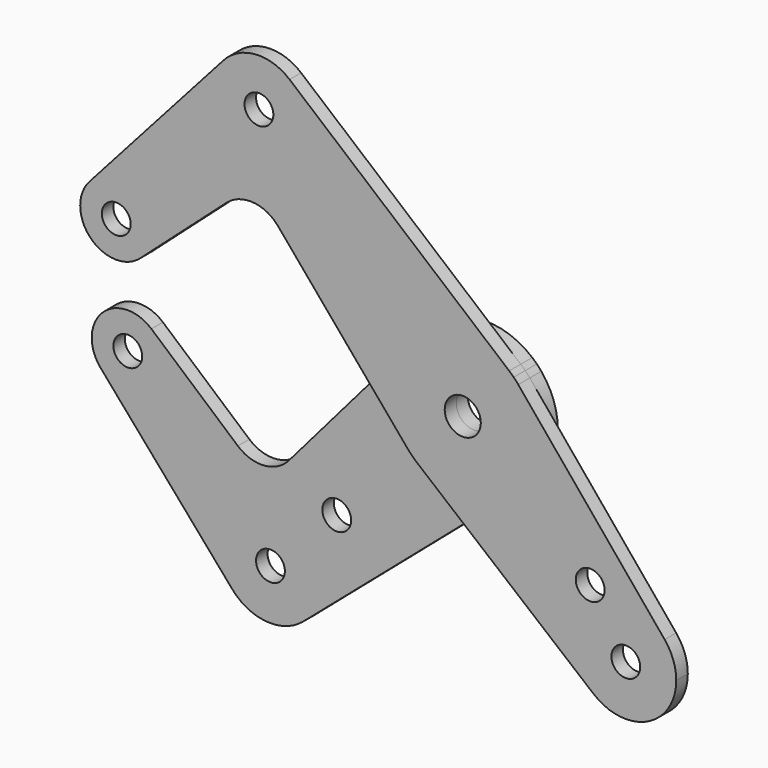
from build123d import *

# Parameters (mm, degrees)
F0_R     = 3.175
F1_DEPTH = 3.175
F2_DEPTH = 3.175


with BuildPart() as f1:
    # F0 (on Front) → F1 (new body)
    with BuildSketch(Plane.XZ):
        with BuildLine():
            ThreePointArc((-34.4237806053, 44.9012806053), (-35.4006557474, 49.3189874266), (-38.1491222534, 52.9129198783))
            ThreePointArc((-38.1491222534, 52.9129198783), (-45.6460041086, 55.35228023), (-52.7212410911, 51.8745312283))
            ThreePointArc((-52.7212410911, 51.8745312283), (-48.6325250533, 35.1106819965), (-34.4237806053, 44.9012806053))
        make_face()
        with Locations((-44.9012806053, 44.9012806053)):
            Circle(F0_R, mode=Mode.SUBTRACT)
        with BuildLine():
            ThreePointArc((-68.3946770291, 13.4703841816), (-73.5054766898, 20.8875043398), (-82.2563895183, 18.7531498051))
            ThreePointArc((-82.2563895183, 18.7531498051), (-81.9448371048, 7.8577241059), (-71.0494114056, 7.5461716924))
            ThreePointArc((-71.0494114056, 7.5461716924), (-69.08870209, 10.2244671992), (-68.3946770291, 13.4703841816))
        make_face()
        with Locations((-76.3321770291, 13.4703841816)):
            Circle(F0_R, mode=Mode.SUBTRACT)
        with BuildLine():
            ThreePointArc((-12.0356034274, 10.3518054047), (-1.2700159776, 15.8241171765), (10.2305429575, 12.1388473833))
            Line((10.2305429575, 12.1388473833), (-38.1491222534, 52.9129198783))
            ThreePointArc((-38.1491222534, 52.9129198783), (-35.4006557474, 49.3189874266), (-34.4237806053, 44.9012806053))
            ThreePointArc((-34.4237806053, 44.9012806053), (-48.6325250533, 35.1106819965), (-52.7212410911, 51.8745312283))
            Line((-52.7212410911, 51.8745312283), (-82.2563895183, 18.7531498051))
            ThreePointArc((-82.2563895183, 18.7531498051), (-73.5054766898, 20.8875043398), (-68.3946770291, 13.4703841816))
            ThreePointArc((-68.3946770291, 13.4703841816), (-69.08870209, 10.2244671992), (-71.0494114056, 7.5461716924))
            Line((-71.0494114056, 7.5461716924), (-52.0712687873, 24.4694470818))
            ThreePointArc((-52.0712687873, 24.4694470818), (-46.2149635715, 26.465847689), (-40.7009159693, 23.6592117657))
            Line((-40.7009159693, 23.6592117657), (-20.8492251592, 0.1045826474))
            Line((-20.8492251592, 0.1045826474), (-12.0356034274, 10.3518054047))
        make_face()
        with BuildLine():
            ThreePointArc((12.2282550252, 10.1235074968), (11.7397208196, 10.6861864142), (11.2253201513, 11.2253201513))
            ThreePointArc((11.2253201513, 11.2253201513), (10.7376509739, 11.692667641), (10.2305429575, 12.1388473833))
            ThreePointArc((10.2305429575, 12.1388473833), (-1.2700159776, 15.8241171765), (-12.0356034274, 10.3518054047))
            ThreePointArc((-12.0356034274, 10.3518054047), (-15.874800283, 0.0796302322), (-12.1388473833, -10.2305429575))
            ThreePointArc((-12.1388473833, -10.2305429575), (-11.1759037477, -11.2745199641), (-10.1235074968, -12.2282550252))
            ThreePointArc((-10.1235074968, -12.2282550252), (0.1493607821, -15.87429735), (10.3518054047, -12.0356034274))
            ThreePointArc((10.3518054047, -12.0356034274), (14.4282801435, -6.6212051093), (15.875, 0))
            ThreePointArc((15.875, 0), (14.9355142785, 5.3801522504), (12.2282550252, 10.1235074968))
        make_face()
        with BuildLine():
            ThreePointArc((2.8108201659, 2.8108201659), (3.6725135297, 1.521204912), (3.9751, 0))
            ThreePointArc((3.9751, 0), (-3.6725135297, -1.521204912), (2.8108201659, 2.8108201659))
        make_face(mode=Mode.SUBTRACT)
        with BuildLine():
            Line((44.4808030019, -28.8345692365), (12.2282550252, 10.1235074968))
            ThreePointArc((12.2282550252, 10.1235074968), (14.9355142785, 5.3801522504), (15.875, 0))
            ThreePointArc((15.875, 0), (14.4282801435, -6.6212051093), (10.3518054047, -12.0356034274))
            Line((10.3518054047, -12.0356034274), (0.1954344954, -20.7710836138))
            Line((0.1954344954, -20.7710836138), (28.8345692365, -44.4808030019))
            ThreePointArc((28.8345692365, -44.4808030019), (28.0633003783, -28.0633003783), (44.4808030019, -28.8345692365))
        make_face()
        with Locations((28.0722806345, -23.5821525739)):
            Circle(F0_R, mode=Mode.SUBTRACT)
        with BuildLine():
            ThreePointArc((47.0335244843, -35.9210244843), (46.3758844792, -32.154917909), (44.4808030019, -28.8345692365))
            ThreePointArc((44.4808030019, -28.8345692365), (28.0633003783, -28.0633003783), (28.8345692365, -44.4808030019))
            ThreePointArc((28.8345692365, -44.4808030019), (40.650687385, -45.9767663811), (47.0335244843, -35.9210244843))
        make_face()
        with Locations((35.9210244843, -35.9210244843)):
            Circle(F0_R, mode=Mode.SUBTRACT)
        with BuildLine():
            ThreePointArc((-12.1388473833, -10.2305429575), (-15.874800283, 0.0796302322), (-12.0356034274, 10.3518054047))
            Line((-12.0356034274, 10.3518054047), (-20.8492251592, 0.1045826474))
            Line((-20.8492251592, 0.1045826474), (-12.1388473833, -10.2305429575))
        make_face()
        with BuildLine():
            Line((0.1954344954, -20.7710836138), (10.3518054047, -12.0356034274))
            ThreePointArc((10.3518054047, -12.0356034274), (0.1493607821, -15.87429735), (-10.1235074968, -12.2282550252))
            Line((-10.1235074968, -12.2282550252), (0.1954344954, -20.7710836138))
        make_face()
    extrude(amount=F1_DEPTH)


with BuildPart() as f2:
    # F0 (on Front) → F2 (new body)
    with BuildSketch(Plane.XZ):
        with BuildLine():
            ThreePointArc((-10.1235074968, -12.2282550252), (-11.1759037477, -11.2745199641), (-12.1388473833, -10.2305429575))
            Line((-12.1388473833, -10.2305429575), (-20.8492251592, 0.1045826474))
            Line((-20.8492251592, 0.1045826474), (-40.8511612346, -23.1508168672))
            ThreePointArc((-40.8511612346, -23.1508168672), (-46.2965222838, -25.8954961667), (-52.0843267669, -23.9754595323))
            Line((-52.0843267669, -23.9754595323), (-71.1347575644, -7.4711561347))
            ThreePointArc((-71.1347575644, -7.4711561347), (-69.1121208226, -10.1727039932), (-68.3946770291, -13.4703841816))
            ThreePointArc((-68.3946770291, -13.4703841816), (-73.5586383483, -20.9075469092), (-82.331405076, -18.6678036462))
            Line((-82.331405076, -18.6678036462), (-53.300199871, -52.1776678558))
            ThreePointArc((-53.300199871, -52.1776678558), (-48.7842347585, -34.4892527868), (-33.7887806053, -44.9012806053))
            ThreePointArc((-33.7887806053, -44.9012806053), (-34.6346693003, -49.1538502475), (-37.0435564994, -52.7590047113))
            Line((-37.0435564994, -52.7590047113), (-37.0213629774, -52.7811982333))
            Line((-37.0213629774, -52.7811982333), (0.1954344954, -20.7710836138))
            Line((0.1954344954, -20.7710836138), (-10.1235074968, -12.2282550252))
        make_face()
        with Locations((-30.2993841525, -30.2993841525)):
            Circle(F0_R, mode=Mode.SUBTRACT)
        with BuildLine():
            ThreePointArc((-53.300199871, -52.1776678558), (-45.7148756595, -55.9839571475), (-37.655016822, -53.3262030046))
            ThreePointArc((-37.655016822, -53.3262030046), (-37.3439635539, -53.04834236), (-37.0435564994, -52.7590047113))
            ThreePointArc((-37.0435564994, -52.7590047113), (-34.6346693003, -49.1538502475), (-33.7887806053, -44.9012806053))
            ThreePointArc((-33.7887806053, -44.9012806053), (-48.7842347585, -34.4892527868), (-53.300199871, -52.1776678558))
        make_face()
        with BuildLine():
            ThreePointArc((-41.7262806053, -44.9012806053), (-41.9679630896, -46.1163005031), (-42.6562165751, -47.1463446356))
            ThreePointArc((-42.6562165751, -47.1463446356), (-47.8345981211, -43.6862607076), (-41.7262806053, -44.9012806053))
        make_face(mode=Mode.SUBTRACT)
        with BuildLine():
            ThreePointArc((-68.3946770291, -13.4703841816), (-69.1121208226, -10.1727039932), (-71.1347575644, -7.4711561347))
            ThreePointArc((-71.1347575644, -7.4711561347), (-81.9448371048, -7.8577241059), (-82.331405076, -18.6678036462))
            ThreePointArc((-82.331405076, -18.6678036462), (-73.5586383483, -20.9075469092), (-68.3946770291, -13.4703841816))
        make_face()
        with Locations((-76.3321770291, -13.4703841816)):
            Circle(F0_R, mode=Mode.SUBTRACT)
        with BuildLine():
            ThreePointArc((12.2282550252, 10.1235074968), (11.7397208196, 10.6861864142), (11.2253201513, 11.2253201513))
            ThreePointArc((11.2253201513, 11.2253201513), (10.7376509739, 11.692667641), (10.2305429575, 12.1388473833))
            ThreePointArc((10.2305429575, 12.1388473833), (-1.2700159776, 15.8241171765), (-12.0356034274, 10.3518054047))
            ThreePointArc((-12.0356034274, 10.3518054047), (-15.874800283, 0.0796302322), (-12.1388473833, -10.2305429575))
            ThreePointArc((-12.1388473833, -10.2305429575), (-11.1759037477, -11.2745199641), (-10.1235074968, -12.2282550252))
            ThreePointArc((-10.1235074968, -12.2282550252), (0.1493607821, -15.87429735), (10.3518054047, -12.0356034274))
            ThreePointArc((10.3518054047, -12.0356034274), (14.4282801435, -6.6212051093), (15.875, 0))
            ThreePointArc((15.875, 0), (14.9355142785, 5.3801522504), (12.2282550252, 10.1235074968))
        make_face()
        with BuildLine():
            ThreePointArc((2.8108201659, 2.8108201659), (3.6725135297, 1.521204912), (3.9751, 0))
            ThreePointArc((3.9751, 0), (-3.6725135297, -1.521204912), (2.8108201659, 2.8108201659))
        make_face(mode=Mode.SUBTRACT)
        with BuildLine():
            Line((0.1954344954, -20.7710836138), (10.3518054047, -12.0356034274))
            ThreePointArc((10.3518054047, -12.0356034274), (0.1493607821, -15.87429735), (-10.1235074968, -12.2282550252))
            Line((-10.1235074968, -12.2282550252), (0.1954344954, -20.7710836138))
        make_face()
        with BuildLine():
            ThreePointArc((-12.1388473833, -10.2305429575), (-15.874800283, 0.0796302322), (-12.0356034274, 10.3518054047))
            Line((-12.0356034274, 10.3518054047), (-20.8492251592, 0.1045826474))
            Line((-20.8492251592, 0.1045826474), (-12.1388473833, -10.2305429575))
        make_face()
    extrude(amount=-F2_DEPTH)


solid = Compound([f1.part, f2.part])
